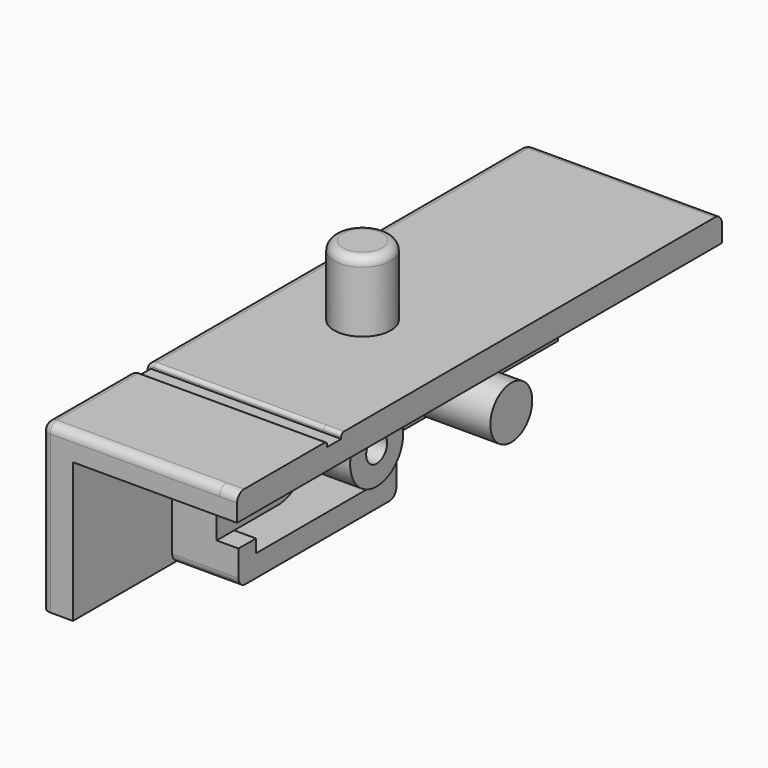
from build123d import *

# Parameters (mm, degrees)
SKETCH012_W             = 34.7
SKETCH012_H             = 9.5
PAD002_DEPTH            = 10.2
SKETCH013_W             = 34.7
SKETCH013_H             = 8
POCKET010_DEPTH         = 8.4
SKETCH014_W             = 11.3
SKETCH014_H             = 8
PAD003_DEPTH            = 3.8
SKETCH015_R             = 1.5
PAD004_DEPTH            = 7.5
FILLET002_R             = 0.5
SKETCH016_W             = 8.8
SKETCH016_H             = 6.75
POCKET011_DEPTH         = 3.81
SKETCH018_W             = 1.25
SKETCH018_H             = 4
POCKET012_DEPTH         = 1.25
PAD005_DEPTH            = 2.56
SKETCH019_R             = 1.9
PAD006_DEPTH            = 5
SKETCH020_R             = 1.05
POCKET014_DEPTH         = 2.56
SKETCH021_R             = 0.75
POCKET015_DEPTH         = 5
SKETCH022_W             = 1
SKETCH022_H             = 9.5
POCKET016_DEPTH         = 0.3
SKETCH023_W             = 1
SKETCH023_H             = 10.2
POCKET017_DEPTH         = 0.3
FILLET003_R             = 0.2
FILLET004_R             = 0.2
SKETCH036_R             = 1.625
PAD012_DEPTH            = 4
FILLET008_R             = 0.5
FILLET020_R             = 0.5
PAD161_DEPTH            = 1
BODY002_ROLL_ANGLE      = -90
BODY002_PLACEMENT_ANGLE = -90


with BuildPart() as part:
    # Sketch012 → Pad002 (new body)
    with BuildSketch(Plane.XY):
        with Locations((-17.35, 0)):
            Rectangle(SKETCH012_W, SKETCH012_H)
    extrude(amount=PAD002_DEPTH)

    # Sketch013 (on Face6 of Pad002) → Pocket010 (cut)
    with BuildSketch(Plane.XY.offset(10.2)):
        with Locations((-17.35, 0.75)):
            Rectangle(SKETCH013_W, SKETCH013_H)
    extrude(amount=-POCKET010_DEPTH, mode=Mode.SUBTRACT)

    # Sketch014 (on Face6 of Pocket010) → Pad003 (join)
    with BuildSketch(Plane.XY.offset(1.8)):
        with Locations((-12.75, 0.75)):
            Rectangle(SKETCH014_W, SKETCH014_H)
    extrude(amount=PAD003_DEPTH)

    # Sketch015 (on Face6 of Pad003) → Pad004 (join)
    with BuildSketch(Plane.XY.offset(1.8)):
        with Locations((-22, 0.75)):
            Circle(SKETCH015_R)
    extrude(amount=PAD004_DEPTH)

    # Fillet002
    fillet002_edges = [part.edges().sort_by_distance(p)[0] for p in [
        (-17.35, -4.75, 0),
        (-34.7, -4.75, 5.1),
        (-34.7, 0, 0),
        (0, -4.75, 5.1),
        (0, 0, 0),
    ]]
    fillet(fillet002_edges, radius=FILLET002_R)

    # Sketch016 (on Face14 of Fillet002) → Pocket011 (cut)
    with BuildSketch(Plane.XY.offset(5.6)):
        with Locations((-12.75, 0.125)):
            Rectangle(SKETCH016_W, SKETCH016_H)
    extrude(amount=-POCKET011_DEPTH, mode=Mode.SUBTRACT)

    # Sketch018 (on Face13 of Pocket011) → Pocket012 (cut)
    with BuildSketch(Plane.XY.offset(5.6)):
        with Locations((-7.725, 0.75)):
            Rectangle(SKETCH018_W, SKETCH018_H)
    extrude(amount=-POCKET012_DEPTH, mode=Mode.SUBTRACT)

    # Sketch017 (on Face23 of Pocket011) → Pad005 (join)
    with BuildSketch(Plane.XY.offset(1.79)):
        with BuildLine():
            Line((-8.35, 2.75), (-11.5, 2.75))
            ThreePointArc((-11.5, 2.75), (-13.500002, 0.750015), (-11.500029, -1.25))
            Line((-11.500029, -1.25), (-8.35, -1.25))
            Line((-8.35, -1.25), (-8.35, 2.75))
        make_face()
    extrude(amount=PAD005_DEPTH)

    # Sketch019 (on Face16 of Pad005) → Pad006 (join)
    with BuildSketch(Plane.XY.offset(1.79)):
        with Locations((-15.5, 0.75)):
            Circle(SKETCH019_R)
    extrude(amount=PAD006_DEPTH)

    # Sketch020 (on Face26 of Pad006) → Pocket014 (cut)
    with BuildSketch(Plane.XY.offset(4.35)):
        with Locations((-11.5, 0.75)):
            Circle(SKETCH020_R)
    extrude(amount=-POCKET014_DEPTH, mode=Mode.SUBTRACT)

    # Sketch021 (on Face37 of Pocket014) → Pocket015 (cut)
    with BuildSketch(Plane.XY.offset(6.79)):
        with Locations((-15.5, 0.75)):
            Circle(SKETCH021_R)
    extrude(amount=-POCKET015_DEPTH, mode=Mode.SUBTRACT)

    # Sketch022 (on Face20 of Pocket015) → Pocket016 (cut)
    with BuildSketch(Plane(origin=(0, 0, 0), x_dir=(1, 0, 0), z_dir=(0, 0, -1))):
        with BuildLine():
            ThreePointArc((-27.95, 2.25), (-30.2, 0), (-27.95, -2.25))
            Line((-27.95, -2.25), (-11.95, -2.25))
            ThreePointArc((-11.95, -2.25), (-9.7, 0), (-11.95, 2.25))
            Line((-27.95, 2.25), (-11.95, 2.25))
        make_face()
        with Locations((-6.95, 0)):
            Rectangle(SKETCH022_W, SKETCH022_H)
    extrude(amount=-POCKET016_DEPTH, mode=Mode.SUBTRACT)

    # Sketch023 (on Face10 of Pocket016) → Pocket017 (cut)
    with BuildSketch(Plane.XZ.offset(4.75)):
        with Locations((-6.95, 5.1)):
            Rectangle(SKETCH023_W, SKETCH023_H)
    extrude(amount=-POCKET017_DEPTH, mode=Mode.SUBTRACT)

    # Fillet003
    fillet003_edges = [part.edges().sort_by_distance(p)[0] for p in [
        (-9.7, 0, 0),
        (-19.95, 2.25, 0),
        (-19.95, -2.25, 0),
        (-30.2, 0, 0),
    ]]
    fillet(fillet003_edges, radius=FILLET003_R)

    # Fillet004
    fillet004_edges = [part.edges().sort_by_distance(p)[0] for p in [
        (-7.45, 0.25, 0),
        (-6.45, 0.25, 0),
        (-7.45, -4.352155, 0.010547),
        (-7.45, -4.603553, 0.146447),
        (-7.45, -4.739453, 0.397845),
        (-7.45, -4.75, 5.35),
        (-6.45, -4.75, 5.35),
        (-6.45, -4.739453, 0.397845),
        (-6.45, -4.603553, 0.146447),
        (-6.45, -4.352155, 0.010547),
    ]]
    fillet(fillet004_edges, radius=FILLET004_R)

    # Sketch036 (on Face13 of Fillet004) → Pad012 (join)
    with BuildSketch(Plane.XZ.offset(4.75)):
        with Locations((-16.6, 5.1)):
            Circle(SKETCH036_R)
    extrude(amount=PAD012_DEPTH)

    # Fillet008
    fillet008_edges = [part.edges().sort_by_distance(p)[0] for p in [
        (-18.225, -8.75, 5.1),
    ]]
    fillet(fillet008_edges, radius=FILLET008_R)

    # Fillet020
    fillet020_edges = [part.edges().sort_by_distance(p)[0] for p in [
        (-7.1, 4.75, 3.7),
        (-18.4, 4.75, 3.7),
    ]]
    fillet(fillet020_edges, radius=FILLET020_R)

    # Sketch282 (on Face29 of Fillet020) → Pad161 (join)
    with BuildSketch(Plane.XY.offset(10.2)):
        with BuildLine():
            Line((0, -3.25), (0, -4.25))
            ThreePointArc((-0.5, -4.75), (-0.146447, -4.603553), (0, -4.25))
            Line((-0.5, -4.75), (-6.25, -4.75))
            ThreePointArc((-6.45, -4.55), (-6.391421, -4.691421), (-6.25, -4.75))
            Line((-6.45, -4.55), (-6.45, -4.45))
            Line((-6.45, -4.45), (-7.45, -4.45))
            Line((-7.45, -4.45), (-7.45, -4.55))
            ThreePointArc((-7.65, -4.75), (-7.508579, -4.691421), (-7.45, -4.55))
            Line((-7.65, -4.75), (-34.2, -4.75))
            ThreePointArc((-34.7, -4.25), (-34.553553, -4.603553), (-34.2, -4.75))
            Line((-34.7, -4.25), (-34.7, -3.25))
            Line((-34.7, -3.25), (0, -3.25))
        make_face()
    extrude(amount=PAD161_DEPTH)


with BuildPart() as part_1:
    # Body002 roll: moved
    add(part.part.rotate(Axis((0, 0, 0), (1, 0, 0)), BODY002_ROLL_ANGLE))


with BuildPart() as part_2:
    # Body002 placement: moved
    add(part_1.part.moved(Location((26.75, -55.7, 8))).rotate(Axis((26.75, -55.7, 8), (0, 0, 1)), BODY002_PLACEMENT_ANGLE))


solid = part_2.part
